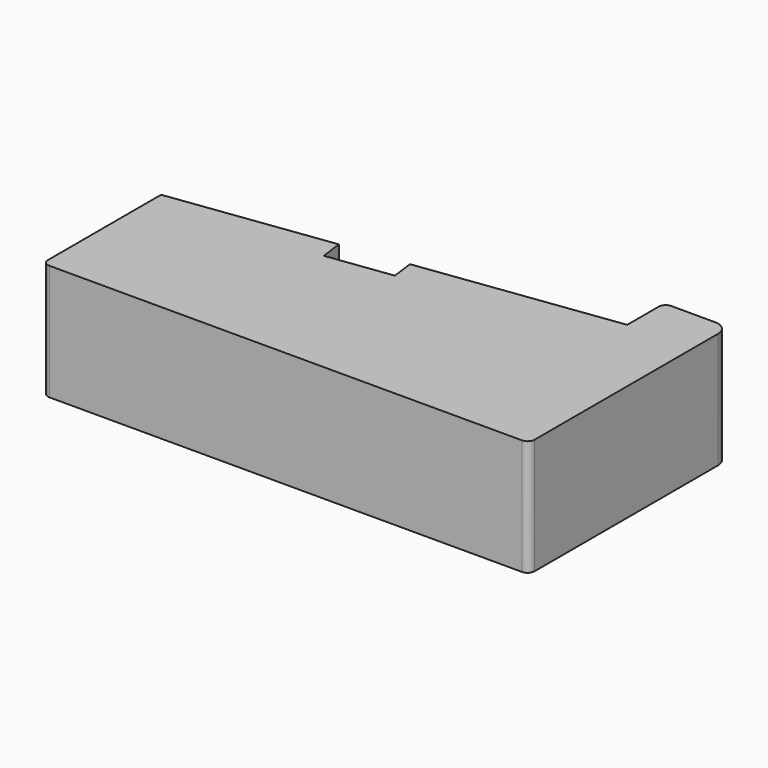
from build123d import *

# Parameters (mm, degrees)
F1_DEPTH = 25


with BuildPart() as f1:
    # F0 (on Top) → F1 (new body)
    with BuildSketch(Plane.XY):
        with BuildLine():
            ThreePointArc((-85.787617, 1.5), (-85.348277, 0.43934), (-84.287617, 0))
            Line((-84.287617, 0), (17.712383, 0))
            ThreePointArc((17.712383, 0), (18.773044, 0.43934), (19.212383, 1.5))
            Line((19.212383, 1.5), (19.212383, 51))
            ThreePointArc((19.212383, 51), (18.333704, 53.12132), (16.212383, 54))
            Line((16.212383, 54), (6.712383, 54))
            ThreePointArc((6.712383, 54), (5.651723, 53.56066), (5.212383, 52.5))
            Line((5.212383, 52.5), (5.212383, 44))
            Line((5.212383, 44), (-37.208175, 38.40608))
            Line((-37.208175, 38.40608), (-36.568613, 33.556067))
            Line((-36.568613, 33.556067), (-50.448453, 31.725759))
            Line((-50.448453, 31.725759), (-51.088016, 36.575772))
            Line((-51.088016, 36.575772), (-85.352985, 32.057314))
            ThreePointArc((-85.352985, 32.057314), (-85.663572, 31.891239), (-85.787617, 31.561606))
            Line((-85.787617, 31.561606), (-85.787617, 1.5))
        make_face()
    extrude(amount=F1_DEPTH)


solid = f1.part
